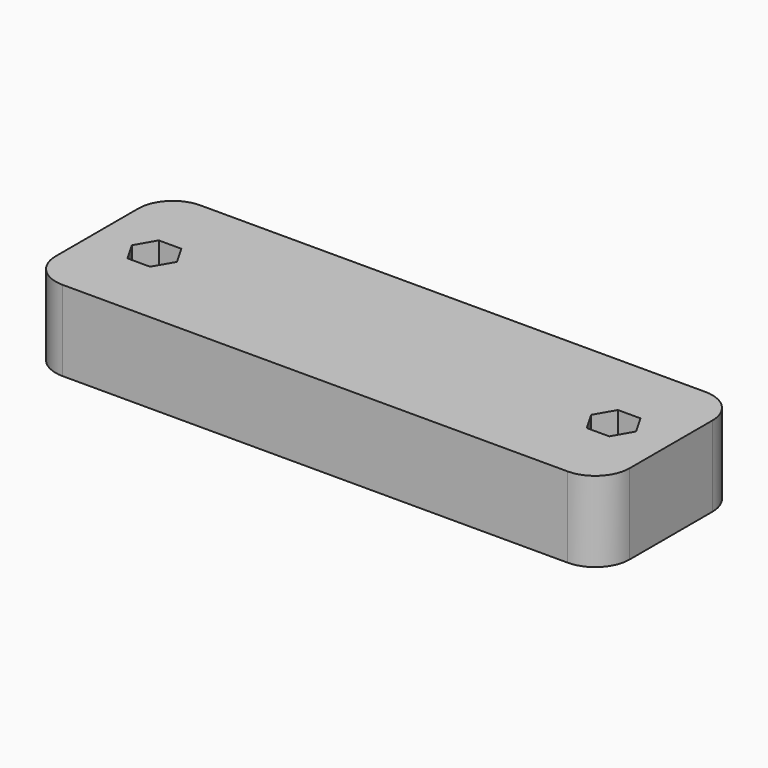
from build123d import *

# Parameters (mm, degrees)
F0_W     = 63.5
F0_H     = 19.05
F1_DEPTH = 8.89
F2_R     = 3.81


with BuildPart() as f1:
    # F0 (on Top) → F1 (new body)
    with BuildSketch(Plane.XY):
        with Locations((31.75, 9.525)):
            Rectangle(F0_W, F0_H)
        Polygon((3.857002, 9.525), (5.103501, 11.684), (7.596499, 11.684), (8.842998, 9.525), (7.596499, 7.366), (5.103501, 7.366), align=None, mode=Mode.SUBTRACT)
        Polygon((54.657002, 9.525), (55.903501, 11.684), (58.396499, 11.684), (59.642998, 9.525), (58.396499, 7.366), (55.903501, 7.366), align=None, mode=Mode.SUBTRACT)
    extrude(amount=F1_DEPTH)

    # F2
    f2_edges = [f1.edges().sort_by_distance(p)[0] for p in [
        (0, 0, 4.445),
        (0, 19.05, 4.445),
        (63.5, 0, 4.445),
        (63.5, 19.05, 4.445),
    ]]
    fillet(f2_edges, radius=F2_R)


solid = f1.part
